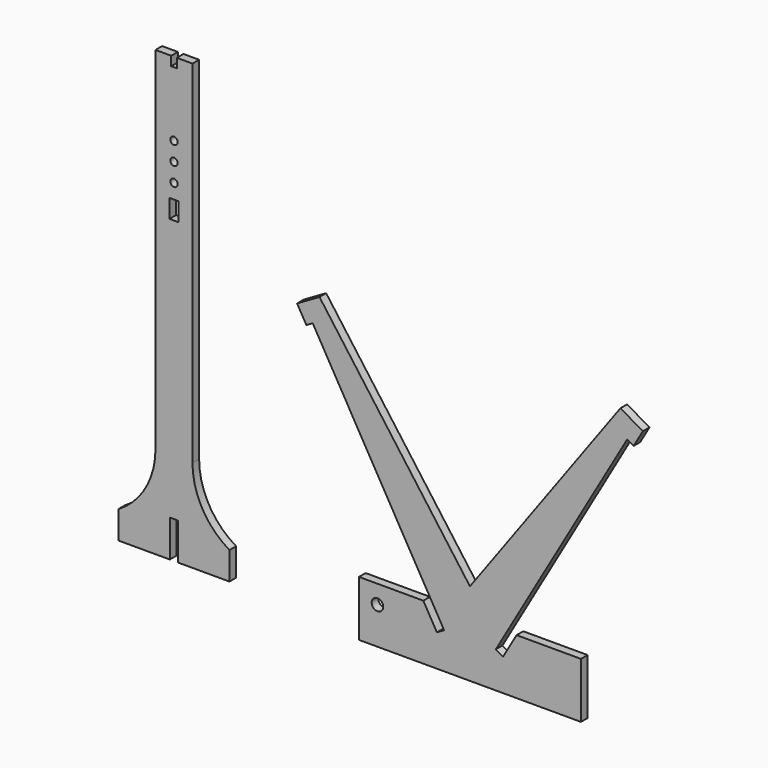
from build123d import *

# Parameters (mm, degrees)
F0_W     = 12.319
F0_H     = 25.4
F0_R     = 5.08
F0_R_2   = 7.9375
F1_DEPTH = 11.43


with BuildPart() as f1:
    # F0 (on Front) → F1 (new body)
    with BuildSketch(Plane.XZ):
        with BuildLine():
            ThreePointArc((76.2, -266.7), (38.995661, -228.995337), (25.4, -177.8))
            Line((25.4, -177.8), (25.4, -304.8))
            Line((25.4, -304.8), (76.2, -304.8))
            Line((76.2, -304.8), (76.2, -266.7))
        make_face()
        Polygon((-3.81, 304.8), (-25.4, 304.8), (-25.4, -177.8), (-25.4, -304.8), (-5.715, -304.8), (-5.715, -254), (5.715, -254), (5.715, -304.8), (25.4, -304.8), (25.4, -177.8), (25.4, 304.8), (3.81, 304.8), (3.81, 292.1), (-3.81, 292.1), align=None)
        with Locations((0, 119.489067)):
            Rectangle(F0_W, F0_H, mode=Mode.SUBTRACT)
        with Locations((0, 152.4)):
            Circle(F0_R, mode=Mode.SUBTRACT)
        with Locations((0, 177.8)):
            Circle(F0_R, mode=Mode.SUBTRACT)
        with Locations((0, 203.2)):
            Circle(F0_R, mode=Mode.SUBTRACT)
        with BuildLine():
            Line((-25.4, -304.8), (-25.4, -177.8))
            ThreePointArc((-25.4, -177.8), (-38.995661, -228.995337), (-76.2, -266.7))
            Line((-76.2, -266.7), (-76.2, -304.8))
            Line((-76.2, -304.8), (-25.4, -304.8))
        make_face()
        Polygon((190.5, 44.661588), (355.6, -241.3), (457.2, -241.3), (622.3, 44.661588), (635, 66.658634), (613.002955, 79.358634), (406.4, -203.2), (199.797045, 79.358634), (177.8, 66.658634), align=None)
        Polygon((254, -241.3), (254, -317.5), (558.8, -317.5), (558.8, -241.3), (470.398227, -241.3), (451.804137, -273.505909), (441.905466, -267.790909), (457.2, -241.3), (355.6, -241.3), (370.894534, -267.790909), (360.995863, -273.505909), (342.401773, -241.3), align=None)
        with Locations((279.4, -266.7)):
            Circle(F0_R_2, mode=Mode.SUBTRACT)
        Polygon((181.701182, 39.581588), (190.5, 44.661588), (177.8, 66.658634), (169.001182, 61.578634), align=None)
        Polygon((635, 66.658634), (622.3, 44.661588), (631.098818, 39.581588), (643.798818, 61.578634), align=None)
    extrude(amount=F1_DEPTH)


solid = f1.part
